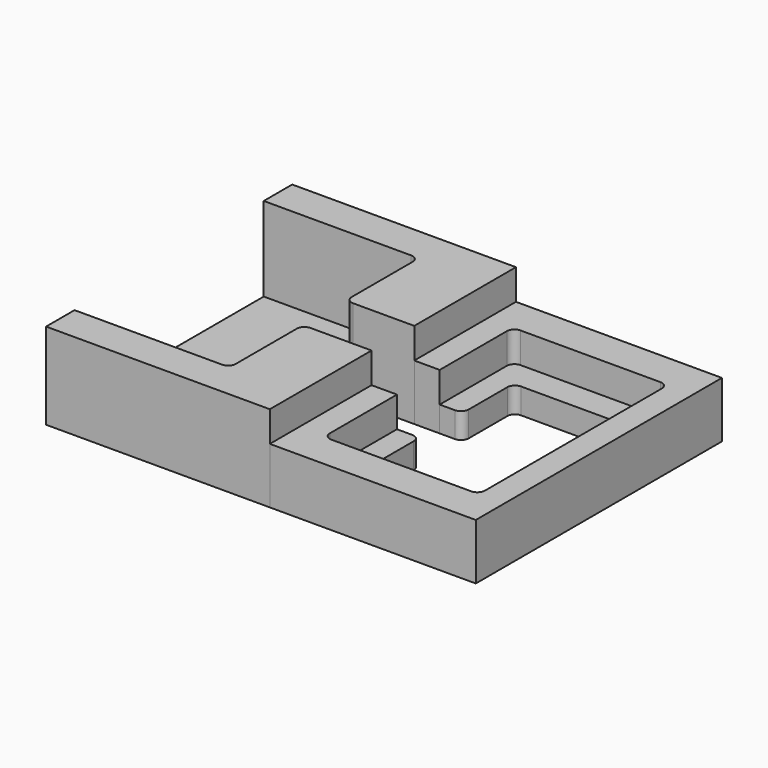
from build123d import *

# Parameters (mm, degrees)
F1_DEPTH = 34
F2_DEPTH = 0.9
F3_DEPTH = 10
F4_DEPTH = 22
F5_R     = 3
F5_2_R   = 3
F5_3_R   = 3
F5_4_R   = 3


with BuildPart() as f1:
    # F0 (on Top) → F1 (new body)
    with BuildSketch(Plane.XY):
        Polygon((3.5, 10.5), (3.5, 60.5), (-84.5, 60.5), (-84.5, 46.5), (-23.5, 46.5), (-23.5, 10.5), align=None)
    extrude(amount=F1_DEPTH)

    # F5
    f5_edges = [f1.edges().sort_by_distance(p)[0] for p in [
        (-23.5, 46.5, 17),
        (-23.5, 10.5, 17),
    ]]
    fillet(f5_edges, radius=F5_R)


with BuildPart() as f1b:
    # F0 (on Top) → F1, piece 2 (new body)
    with BuildSketch(Plane.XY):
        Polygon((-84.5, -60.5), (3.5, -60.5), (3.5, -10.5), (-23.5, -10.5), (-23.5, -46.5), (-84.5, -46.5), align=None)
    extrude(amount=F1_DEPTH)

    # F5#2
    f5_2_edges = [f1b.edges().sort_by_distance(p)[0] for p in [
        (-23.5, -46.5, 17),
        (-23.5, -10.5, 17),
    ]]
    fillet(f5_2_edges, radius=F5_2_R)


with BuildPart() as f2:
    # F0 (on Top) → F2 (new body)
    with BuildSketch(Plane.XY):
        with BuildLine():
            Line((-84.5, 46.5), (-84.5, -46.5))
            Line((-84.5, -46.5), (-23.5, -46.5))
            Line((-23.5, -46.5), (-23.5, -10.5))
            ThreePointArc((-23.5, -10.5), (-34, 0), (-23.5, 10.5))
            Line((-23.5, 10.5), (-23.5, 46.5))
            Line((-23.5, 46.5), (-84.5, 46.5))
        make_face()
    extrude(amount=F2_DEPTH)


with BuildPart() as f3:
    # F0 (on Top) → F3 (new body)
    with BuildSketch(Plane.XY):
        Polygon((22.5, -10.5), (13.5, -10.5), (13.5, -46.5), (74.5, -46.5), (74.5, 46.5), (13.5, 46.5), (13.5, 10.5), (22.5, 10.5), (22.5, 35.5), (64.5, 35.5), (64.5, -34.5), (22.5, -34.5), align=None)
    extrude(amount=F3_DEPTH)

    # F5#3
    f5_3_edges = [f3.edges().sort_by_distance(p)[0] for p in [
        (22.5, 35.5, 5),
        (64.5, 35.5, 5),
        (22.5, -34.5, 5),
        (64.5, -34.5, 5),
        (22.5, 10.5, 5),
        (22.5, -10.5, 5),
    ]]
    fillet(f5_3_edges, radius=F5_3_R)


with BuildPart() as f4:
    # F0 (on Top) → F4 (new body)
    with BuildSketch(Plane.XY):
        Polygon((3.5, -60.5), (84.5, -60.5), (84.5, 60.5), (3.5, 60.5), (3.5, 10.5), (13.5, 10.5), (13.5, 46.5), (74.5, 46.5), (74.5, -46.5), (13.5, -46.5), (13.5, -10.5), (3.5, -10.5), align=None)
    extrude(amount=F4_DEPTH)

    # F5#4
    f5_4_edges = [f4.edges().sort_by_distance(p)[0] for p in [
        (13.5, 46.5, 11),
        (74.5, 46.5, 11),
        (13.5, -46.5, 11),
        (74.5, -46.5, 11),
    ]]
    fillet(f5_4_edges, radius=F5_4_R)


solid = Compound([f1.part, f1b.part, f2.part, f3.part, f4.part])
